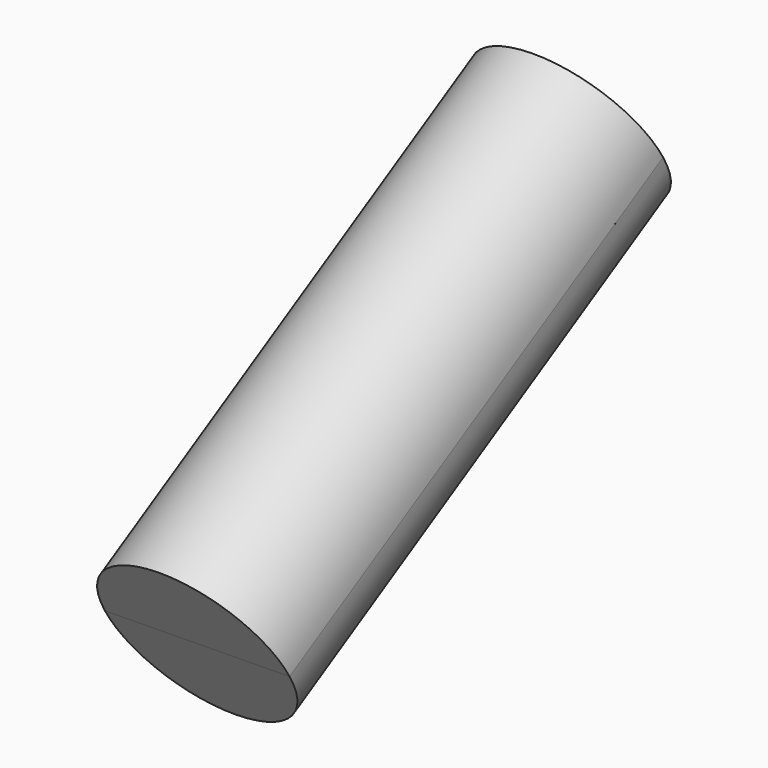
from build123d import *

# Parameters (mm, degrees)
F3_DEPTH = 101.6


with BuildPart() as f3:
    # F2 (on face) → F3 (new body)
    with BuildSketch(Plane(origin=(0, 1259.806246, 721.340901), x_dir=(-1, 0, 0), z_dir=(0, 0.867812, 0.496893))):
        with BuildLine():
            Line((-17.586682, 186.773763), (17.586682, 186.015878))
            ThreePointArc((17.586682, 186.015878), (0.378943, 203.981503), (-17.586682, 186.773763))
        make_face()
    extrude(amount=F3_DEPTH)


with BuildPart() as f5_1:
    # F5: instance of F3
    add(f3.part.mirror(Plane(origin=(0, 1211.272902, 908.338717), x_dir=(-0.999061, 0.043323, 0), z_dir=(0.021542, 0.496777, -0.867611))))


solid = Compound([f3.part, f5_1.part])
